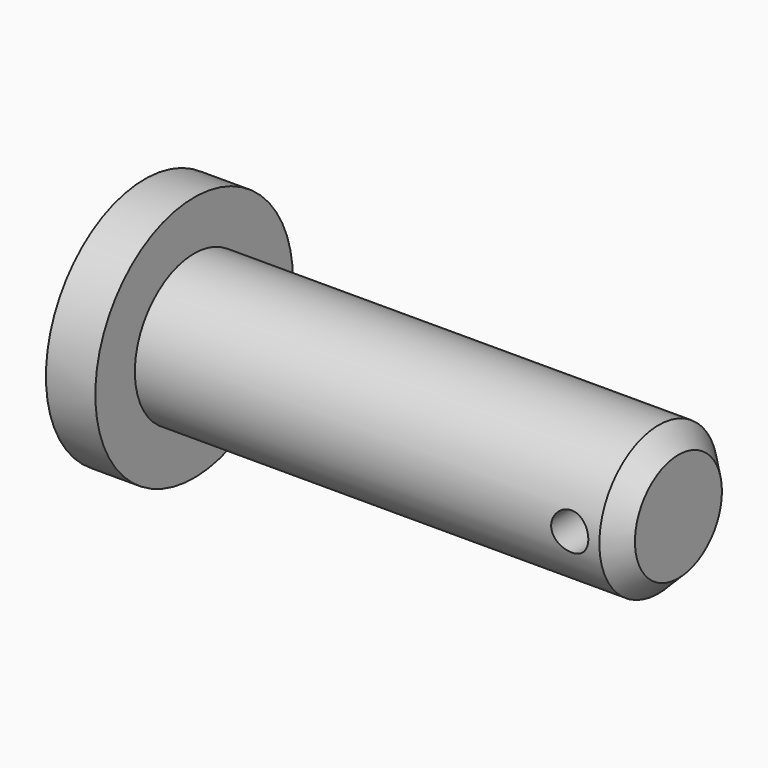
from build123d import *

# Parameters (mm, degrees)
F0_R          = 15.875
F1_DEPTH      = 6.35
F2_R          = 9.525
F3_DEPTH      = 62.23
F4_SIZE       = 2.54
F5_R          = 2.3876
F6_DEPTH      = 15.876
F6_DEPTH_BACK = 25.4


with BuildPart() as f1:
    # F0 (on Right) → F1 (new body)
    with BuildSketch(Plane.YZ):
        Circle(F0_R)
    extrude(amount=F1_DEPTH)

    # F2 (on face) → F3 (join)
    with BuildSketch(Plane.YZ.offset(6.35)):
        Circle(F2_R)
    extrude(amount=F3_DEPTH)

    # F4
    f4_edges = [f1.edges().sort_by_distance(p)[0] for p in [
        (68.58, -9.525, 0),
    ]]
    chamfer(f4_edges, length=F4_SIZE)

    # F5 (on Front) → F6 (cut, two sides)
    with BuildSketch(Plane.XZ) as f6_sk:
        with Locations((62.23, 0)):
            Circle(F5_R)
    extrude(amount=-F6_DEPTH, mode=Mode.SUBTRACT)
    extrude(f6_sk.sketch, amount=F6_DEPTH_BACK, mode=Mode.SUBTRACT)


solid = f1.part
